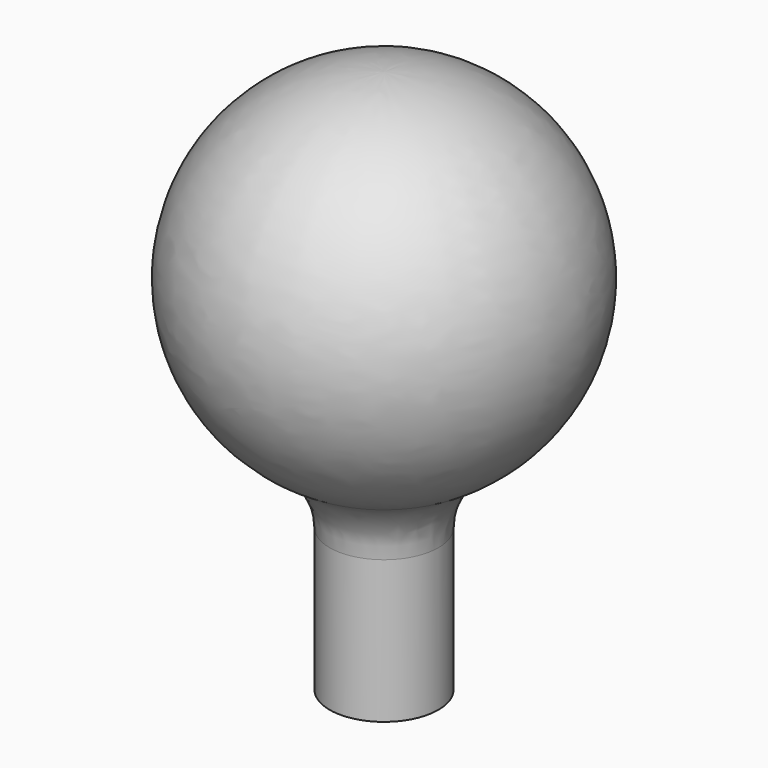
from build123d import *

# Parameters (mm, degrees)
F2_R = 2


with BuildPart() as f1:
    # F0 (on Front) → F1 (revolve)
    with BuildSketch(Plane.XZ):
        with BuildLine():
            Line((1.5, -10), (1.5, -4.769696))
            ThreePointArc((1.5, -4.769696), (4.942089, 0.758788), (0, 5))
            Line((0, 5), (0, -10))
            Line((0, -10), (1.5, -10))
        make_face()
    revolve(axis=Axis((0, 0, -2.5), (0, 0, -1)))

    # F2
    f2_edges = [f1.edges().sort_by_distance(p)[0] for p in [
        (-1.5, 0, -4.769696),
    ]]
    fillet(f2_edges, radius=F2_R)


solid = f1.part
